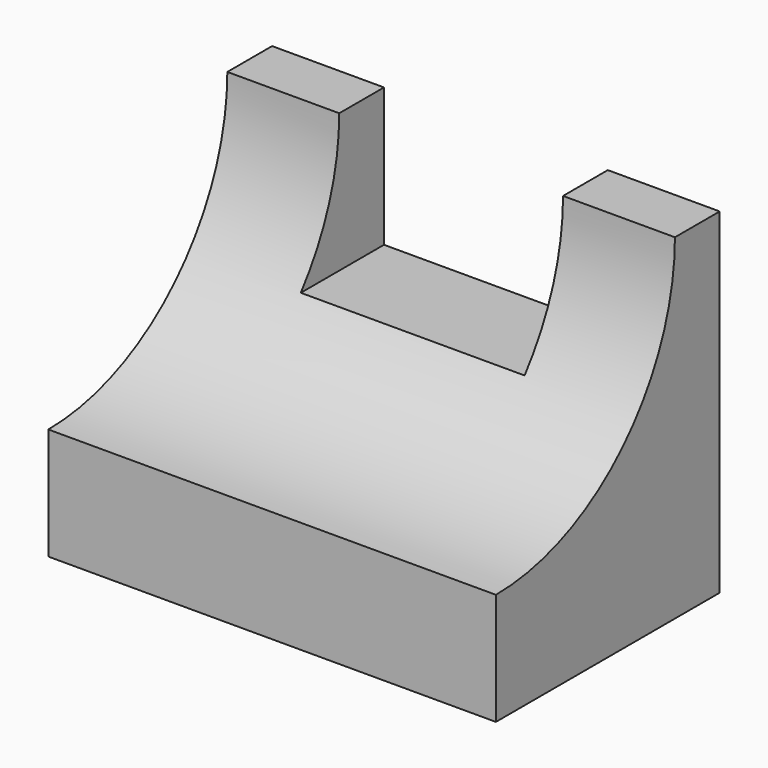
from build123d import *

# Parameters (mm, degrees)
F1_DEPTH = 31.75
F3_DEPTH = 50.8


with BuildPart() as f1:
    # F0 (on Front) → F1 (new body)
    with BuildSketch(Plane.XZ):
        Polygon((-50.8, 0), (0, 0), (0, 38.1), (-12.7, 38.1), (-12.7, 22.376189), (-38.1, 22.376189), (-38.1, 38.1), (-50.8, 38.1), align=None)
    extrude(amount=F1_DEPTH)

    # F2 (on face) → F3 (cut)
    with BuildSketch(Plane.YZ):
        with BuildLine():
            Line((-31.75, 38.1), (-31.75, 12.7))
            ThreePointArc((-31.75, 12.7), (-13.789488, 20.139488), (-6.35, 38.1))
            Line((-6.35, 38.1), (-31.75, 38.1))
        make_face()
    extrude(amount=-F3_DEPTH, mode=Mode.SUBTRACT)


solid = f1.part
